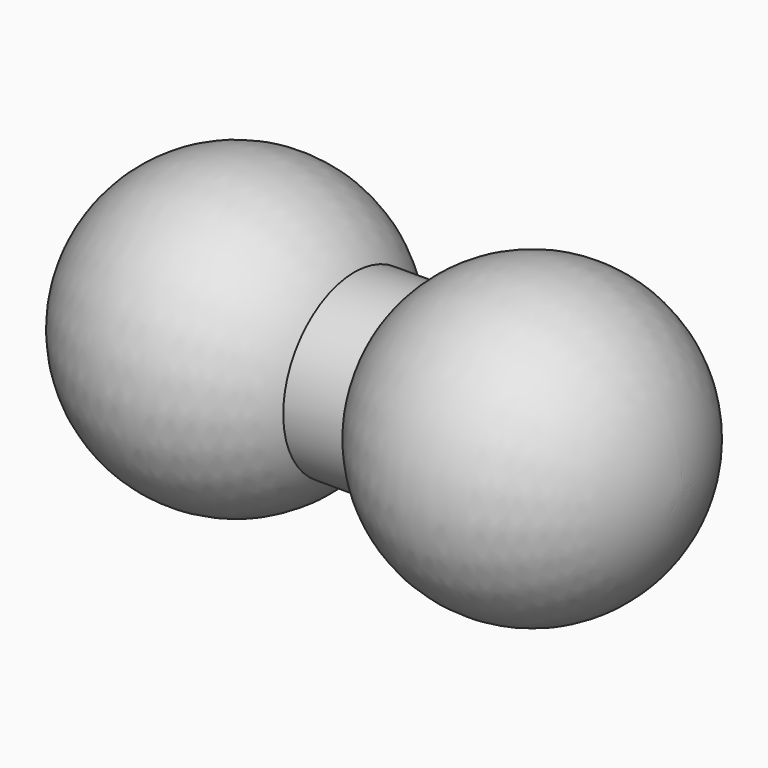
from build123d import *


with BuildPart() as f1:
    # F0 (on Front) → F1 (revolve)
    with BuildSketch(Plane.XZ):
        with BuildLine():
            Line((-3, 0), (17, 0))
            ThreePointArc((17, 0), (13.581139, 4.743416), (8, 3))
            Line((8, 3), (7, 3))
            Line((7, 3), (6, 3))
            ThreePointArc((6, 3), (0.418861, 4.743416), (-3, 0))
        make_face()
    revolve(axis=Axis((7, 0, 0), (1, 0, 0)))


solid = f1.part
